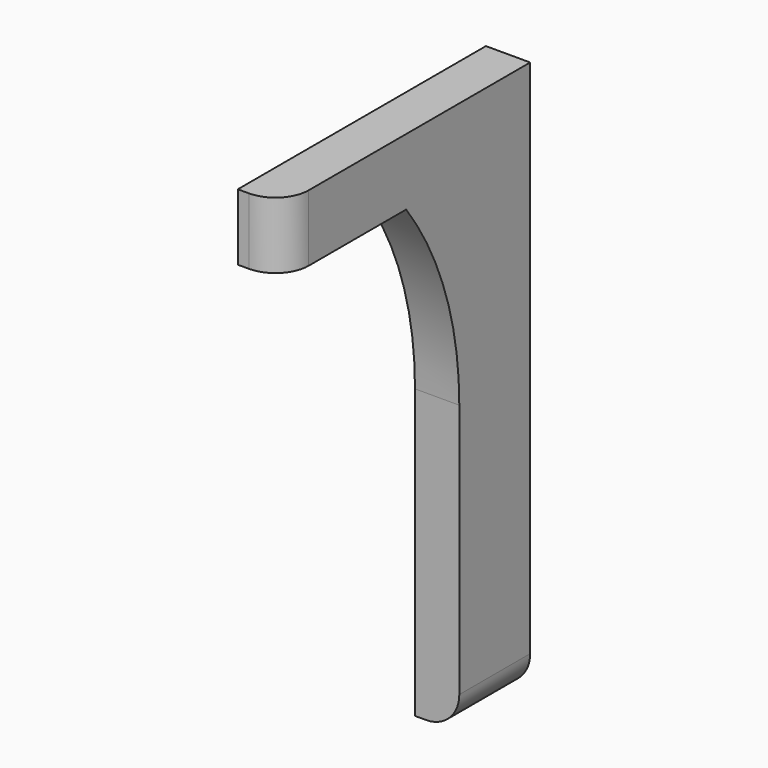
from build123d import *

# Parameters (mm, degrees)
CYLINDER098_R     = 15
CYLINDER098_DEPTH = 4
BOX249_W          = 2
BOX249_H          = 10
BOX249_DEPTH      = 9
BOX250_W          = 2
BOX250_H          = 4
BOX250_DEPTH      = 13
BOX251_W          = 2
BOX251_H          = 14
BOX251_DEPTH      = 3
FILLET064_R       = 1.5


with BuildPart() as cylinder178:
    # Cylinder098 → Cylinder098 (new body)
    with BuildSketch(Plane(origin=(117, 31, -15), x_dir=(0, 0, -1), z_dir=(1, 0, 0))):
        Circle(CYLINDER098_R)
    extrude(amount=CYLINDER098_DEPTH)


with BuildPart() as cut130:
    # Box249 → Box249 (new body)
    with BuildSketch(Plane(origin=(118, 40, -15), x_dir=(1, 0, 0), z_dir=(0, 0, 1))):
        with Locations((1, 5)):
            Rectangle(BOX249_W, BOX249_H)
    extrude(amount=BOX249_DEPTH)

    # Cut130: cut Cylinder178
    add(cylinder178.part, mode=Mode.SUBTRACT)


with BuildPart() as cube238:
    # Box250 → Box250 (new body)
    with BuildSketch(Plane(origin=(118, 46, -28), x_dir=(1, 0, 0), z_dir=(0, 0, 1))):
        with Locations((1, 2)):
            Rectangle(BOX250_W, BOX250_H)
    extrude(amount=BOX250_DEPTH)


with BuildPart() as fillet064:
    # Box251 → Box251 (new body)
    with BuildSketch(Plane(origin=(118, 36, -6), x_dir=(1, 0, 0), z_dir=(0, 0, 1))):
        with Locations((1, 7)):
            Rectangle(BOX251_W, BOX251_H)
    extrude(amount=BOX251_DEPTH)

    # Fusion078: union Cut130, Cube238
    add(cut130.part)
    add(cube238.part)

    # Fillet064
    fillet064_edges = [fillet064.edges().sort_by_distance(p)[0] for p in [
        (120, 36, -4.5),
        (120, 48, -28),
    ]]
    fillet(fillet064_edges, radius=FILLET064_R)


solid = fillet064.part
